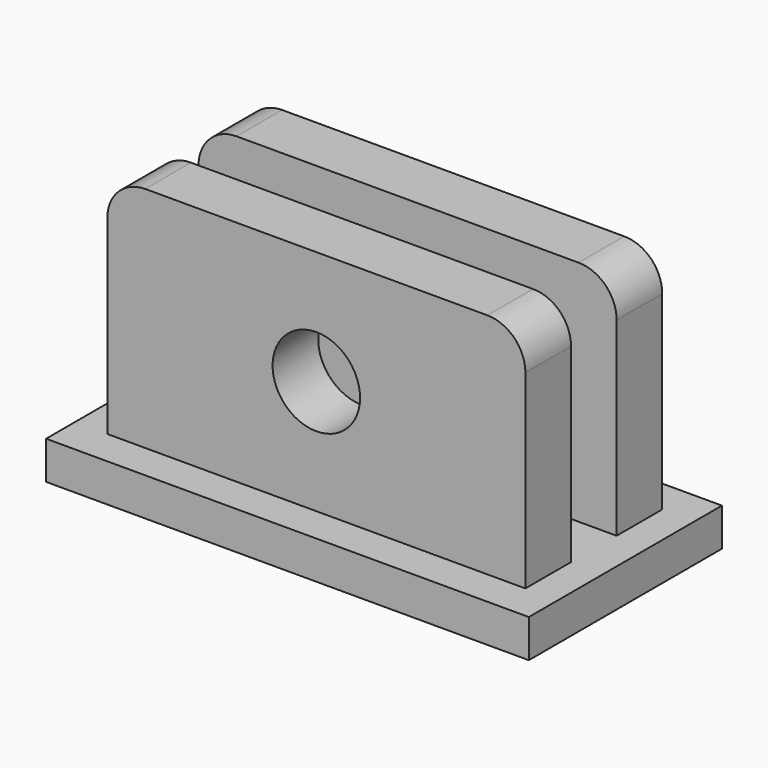
from build123d import *

# Parameters (mm, degrees)
F0_W     = 25.4
F0_H     = 12.7
F1_DEPTH = 2
F2_W     = 22
F2_H     = 3
F3_DEPTH = 12
F4_R     = 2.3
F5_DEPTH = 25
F6_R     = 2


with BuildPart() as f1:
    # F0 (on Top) → F1 (new body)
    with BuildSketch(Plane.XY):
        with Locations((17.427291, 17.500329)):
            Rectangle(F0_W, F0_H)
    extrude(amount=F1_DEPTH)

    # F2 (on face) → F3 (join)
    with BuildSketch(Plane.XY.offset(2)):
        with Locations((17.427291, 20.550329)):
            Rectangle(F2_W, F2_H)
        with Locations((17.427291, 14.550329)):
            Rectangle(F2_W, F2_H)
    extrude(amount=F3_DEPTH)

    # F4 (on face) → F5 (cut)
    with BuildSketch(Plane.XZ.offset(-13.050329)):
        with Locations((17.427291, 8)):
            Circle(F4_R)
    extrude(amount=-F5_DEPTH, mode=Mode.SUBTRACT)

    # F6
    f6_edges = [f1.edges().sort_by_distance(p)[0] for p in [
        (6.427291, 20.550329, 14),
        (6.427291, 14.550329, 14),
        (28.427291, 20.550329, 14),
        (28.427291, 14.550329, 14),
    ]]
    fillet(f6_edges, radius=F6_R)


solid = f1.part
